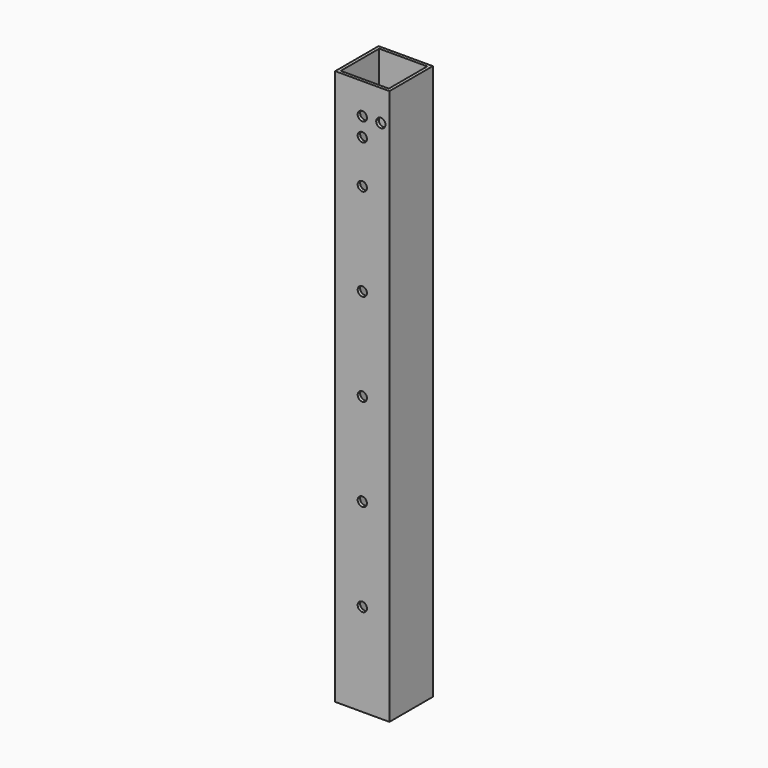
from build123d import *

# Parameters (mm, degrees)
F0_W     = 22.3266
F0_H     = 22.3266
F0_W_2   = 19.7866
F0_H_2   = 19.7866
F1_DEPTH = 228.6
F2_R     = 1.905
F3_DEPTH = 22.3276
F4_R     = 1.905
F5_DEPTH = 22.3276


with BuildPart() as f1:
    # F0 (on Top) → F1 (new body)
    with BuildSketch(Plane.XY):
        Rectangle(F0_W, F0_H)
        Rectangle(F0_W_2, F0_H_2, mode=Mode.SUBTRACT)
    extrude(amount=F1_DEPTH)

    # F2 (on face) → F3 (cut, through all)
    with BuildSketch(Plane.XZ.offset(11.1633)):
        with Locations((0, 38.1)):
            Circle(F2_R)
        with Locations((0, 76.2)):
            Circle(F2_R)
        with Locations((0, 114.3)):
            Circle(F2_R)
        with Locations((0, 152.4)):
            Circle(F2_R)
        with Locations((0, 190.5)):
            Circle(F2_R)
    extrude(amount=-F3_DEPTH, mode=Mode.SUBTRACT)

    # F4 (on face) → F5 (cut, through all)
    with BuildSketch(Plane.XZ.offset(11.1633)):
        with Locations((0, 215.9)):
            Circle(F4_R)
        with Locations((7.62, 215.9)):
            Circle(F4_R)
        with Locations((0, 208.28)):
            Circle(F4_R)
    extrude(amount=-F5_DEPTH, mode=Mode.SUBTRACT)


solid = f1.part
